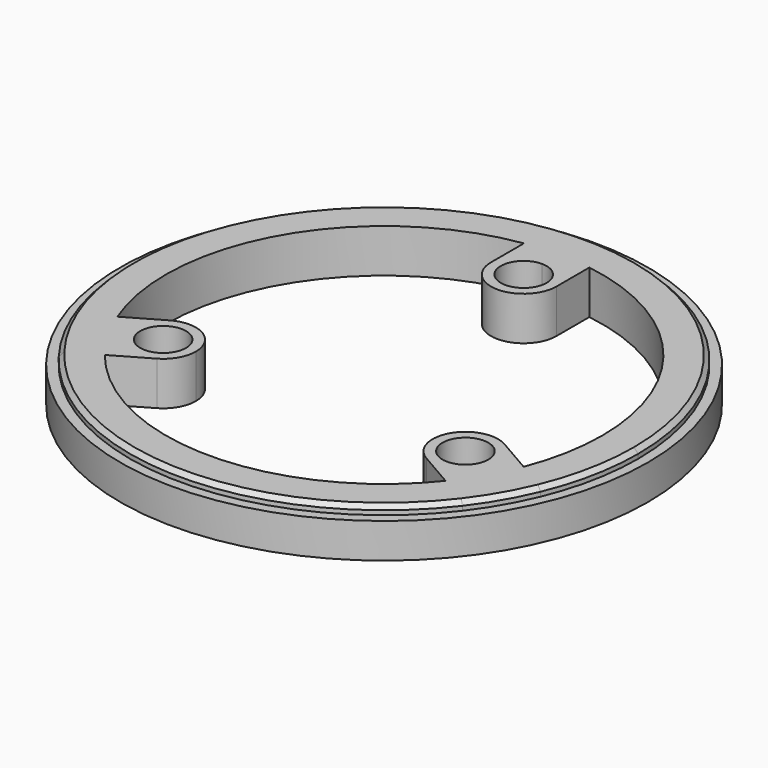
from build123d import *

# Parameters (mm, degrees)
F0_R     = 5.25
F1_DEPTH = 10
F0_R_2   = 60.5
F2_DEPTH = 8
F3_SIZE  = 1
F0_R_3   = 3.5
F4_DEPTH = 3


with BuildPart() as f1:
    # F0 (on Top) → F1 (new body)
    with BuildSketch(Plane.XY):
        with BuildLine():
            ThreePointArc((7.5, 49.4342998332), (37.9143772203, 32.596012026), (50, 0))
            ThreePointArc((50, 0), (49.1328198544, -9.2717858665), (46.5613594739, -18.2219593882))
            Line((46.5613594739, -18.2219593882), (53.7760869447, -22.3873842357))
            ThreePointArc((53.7760869447, -22.3873842357), (57.1205723209, -11.4150215828), (58.25, 0))
            ThreePointArc((58.25, 0), (43.7603559172, 38.4459848359), (7.5, 57.7651495281))
            Line((7.5, 57.7651495281), (7.5, 49.4342998332))
        make_face()
        with BuildLine():
            ThreePointArc((0, 50), (3.7606520937, 49.8583743801), (7.5, 49.4342998332))
            Line((7.5, 49.4342998332), (7.5, 57.7651495281))
            Line((7.5, 57.7651495281), (-7.5, 57.7651495281))
            Line((-7.5, 57.7651495281), (-7.5, 49.4342998332))
            ThreePointArc((-7.5, 49.4342998332), (-3.7606520937, 49.8583743801), (0, 50))
        make_face()
        with BuildLine():
            ThreePointArc((-46.5613594739, -18.2219593882), (-43.3012701892, 25), (-7.5, 49.4342998332))
            Line((-7.5, 49.4342998332), (-7.5, 57.7651495281))
            ThreePointArc((-7.5, 57.7651495281), (-50.4459797704, 29.125), (-53.7760869447, -22.3873842357))
            Line((-53.7760869447, -22.3873842357), (-46.5613594739, -18.2219593882))
        make_face()
        with BuildLine():
            Line((-46.2760869447, -35.3777652924), (-39.0613594739, -31.212340445))
            ThreePointArc((-39.0613594739, -31.212340445), (-43.3012701892, -25), (-46.5613594739, -18.2219593882))
            Line((-46.5613594739, -18.2219593882), (-53.7760869447, -22.3873842357))
            ThreePointArc((-53.7760869447, -22.3873842357), (-50.4459797704, -29.125), (-46.2760869447, -35.3777652924))
        make_face()
        with BuildLine():
            Line((46.2760869447, -35.3777652924), (39.0613594739, -31.212340445))
            ThreePointArc((39.0613594739, -31.212340445), (0, -50), (-39.0613594739, -31.212340445))
            Line((-39.0613594739, -31.212340445), (-46.2760869447, -35.3777652924))
            ThreePointArc((-46.2760869447, -35.3777652924), (0, -58.25), (46.2760869447, -35.3777652924))
        make_face()
        with BuildLine():
            Line((53.7760869447, -22.3873842357), (46.5613594739, -18.2219593882))
            ThreePointArc((46.5613594739, -18.2219593882), (43.3012701892, -25), (39.0613594739, -31.212340445))
            Line((39.0613594739, -31.212340445), (46.2760869447, -35.3777652924))
            ThreePointArc((46.2760869447, -35.3777652924), (50.4459797704, -29.125), (53.7760869447, -22.3873842357))
        make_face()
        with BuildLine():
            Line((-7.5, 57.7651495281), (7.5, 57.7651495281))
            ThreePointArc((7.5, 57.7651495281), (0, 58.25), (-7.5, 57.7651495281))
        make_face()
        with BuildLine():
            Line((7.5, 40), (7.5, 49.4342998332))
            ThreePointArc((7.5, 49.4342998332), (3.7606520937, 49.8583743801), (0, 50))
            Line((0, 50), (0, 47.5))
            ThreePointArc((0, 47.5), (5.3033008589, 45.3033008589), (7.5, 40))
        make_face()
        with BuildLine():
            Line((0, 47.5), (0, 50))
            ThreePointArc((0, 50), (-3.7606520937, 49.8583743801), (-7.5, 49.4342998332))
            Line((-7.5, 49.4342998332), (-7.5, 40))
            ThreePointArc((-7.5, 40), (-5.3033008589, 45.3033008589), (0, 47.5))
        make_face()
        with BuildLine():
            ThreePointArc((-7.5, 40), (0, 32.5), (7.5, 40))
            ThreePointArc((7.5, 40), (5.3033008589, 45.3033008589), (0, 47.5))
            ThreePointArc((0, 47.5), (-5.3033008589, 45.3033008589), (-7.5, 40))
        make_face()
        with BuildLine():
            ThreePointArc((5.25, 40), (-3.7123106012, 36.2876893988), (0, 45.25))
            ThreePointArc((0, 45.25), (3.7123106012, 43.7123106012), (5.25, 40))
        make_face(mode=Mode.SUBTRACT)
        with BuildLine():
            ThreePointArc((39.0613594739, -31.212340445), (43.3012701892, -25), (46.5613594739, -18.2219593882))
            Line((46.5613594739, -18.2219593882), (38.3910161948, -13.5048094967))
            ThreePointArc((38.3910161948, -13.5048094967), (41.1362066923, -16.2500000217), (42.1410161514, -20))
            ThreePointArc((42.1410161514, -20), (38.3910161049, -26.4951905552), (30.8910160584, -26.4951904747))
            Line((30.8910160584, -26.4951904747), (39.0613594739, -31.212340445))
        make_face()
        with BuildLine():
            ThreePointArc((42.1410161514, -20), (41.1362066923, -16.2500000217), (38.3910161948, -13.5048094967))
            ThreePointArc((38.3910161948, -13.5048094967), (28.1458256624, -16.2499999318), (30.8910160584, -26.4951904747))
            ThreePointArc((30.8910160584, -26.4951904747), (38.3910161049, -26.4951905552), (42.1410161514, -20))
        make_face()
        with Locations((34.6410161514, -20)):
            Circle(F0_R, mode=Mode.SUBTRACT)
        with BuildLine():
            ThreePointArc((-38.3910159202, -13.5048093381), (-41.1362067455, -23.7499998861), (-30.891016148, -26.4951905264))
            ThreePointArc((-30.891016148, -26.4951905264), (-28.145825622, -23.7499999983), (-27.1410161514, -20))
            ThreePointArc((-27.1410161514, -20), (-30.8910160358, -13.5048095384), (-38.3910159202, -13.5048093381))
        make_face()
        with Locations((-34.6410161514, -20)):
            Circle(F0_R, mode=Mode.SUBTRACT)
        with BuildLine():
            ThreePointArc((-46.5613594739, -18.2219593882), (-43.3012701892, -25), (-39.0613594739, -31.212340445))
            Line((-39.0613594739, -31.212340445), (-30.891016148, -26.4951905264))
            ThreePointArc((-30.891016148, -26.4951905264), (-41.1362067455, -23.7499998861), (-38.3910159202, -13.5048093381))
            Line((-38.3910159202, -13.5048093381), (-46.5613594739, -18.2219593882))
        make_face()
    extrude(amount=F1_DEPTH)

    # F0 (on Top) → F2 (join)
    with BuildSketch(Plane.XY):
        Circle(F0_R_2)
        with BuildLine():
            ThreePointArc((-7.5, 57.7651495281), (0, 58.25), (7.5, 57.7651495281))
            ThreePointArc((7.5, 57.7651495281), (43.7603559172, 38.4459848359), (58.25, 0))
            ThreePointArc((58.25, 0), (57.1205723209, -11.4150215828), (53.7760869447, -22.3873842357))
            ThreePointArc((53.7760869447, -22.3873842357), (50.4459797704, -29.125), (46.2760869447, -35.3777652924))
            ThreePointArc((46.2760869447, -35.3777652924), (0, -58.25), (-46.2760869447, -35.3777652924))
            ThreePointArc((-46.2760869447, -35.3777652924), (-50.4459797704, -29.125), (-53.7760869447, -22.3873842357))
            ThreePointArc((-53.7760869447, -22.3873842357), (-50.4459797704, 29.125), (-7.5, 57.7651495281))
        make_face(mode=Mode.SUBTRACT)
    extrude(amount=F2_DEPTH)

    # F3
    f3_edges = [f1.edges().sort_by_distance(p)[0] for p in [
        (-7.5, -57.76515, 10),
    ]]
    chamfer(f3_edges, length=F3_SIZE)

    # F0 (on Top) → F4 (join)
    with BuildSketch(Plane.XY):
        with BuildLine():
            ThreePointArc((5.25, 40), (3.7123106012, 43.7123106012), (0, 45.25))
            ThreePointArc((0, 45.25), (-3.7123106012, 36.2876893988), (5.25, 40))
        make_face()
        with BuildLine():
            ThreePointArc((3.5, 40), (-2.4748737342, 37.5251262658), (0, 43.5))
            ThreePointArc((0, 43.5), (2.4748737342, 42.4748737342), (3.5, 40))
        make_face(mode=Mode.SUBTRACT)
        with Locations((-34.6410161514, -20)):
            Circle(F0_R)
        with Locations((-34.6410161514, -20)):
            Circle(F0_R_3, mode=Mode.SUBTRACT)
        with Locations((34.6410161514, -20)):
            Circle(F0_R)
        with Locations((34.6410161514, -20)):
            Circle(F0_R_3, mode=Mode.SUBTRACT)
    extrude(amount=F4_DEPTH)


solid = f1.part
